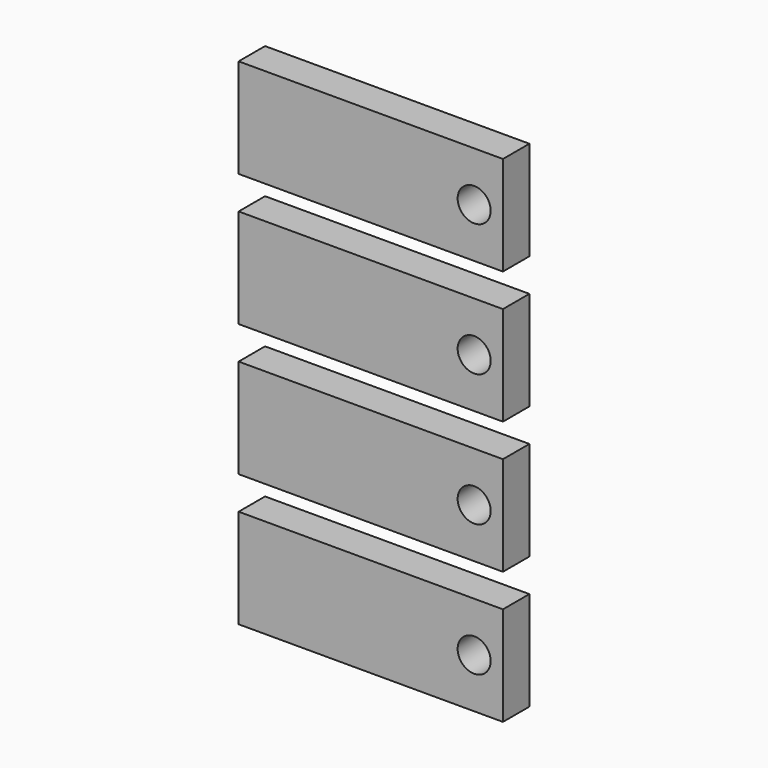
from build123d import *

# Parameters (mm, degrees)
F0_W     = 50.8
F0_H     = 19.05
F1_DEPTH = 3.175
F3_D     = 6.35


with BuildPart() as f1:
    # F0 (on Front) → F1 (new body, symmetric)
    with BuildSketch(Plane.XZ):
        Rectangle(F0_W, F0_H)
        with Locations((0, 25.4)):
            Rectangle(F0_W, F0_H)
        with Locations((0, -25.4)):
            Rectangle(F0_W, F0_H)
        with Locations((0, -50.8)):
            Rectangle(F0_W, F0_H)
    extrude(amount=F1_DEPTH, both=True)

    # F3 (through all)
    with Locations(Plane.XZ.offset(3.175)):
        with Locations((19.86908, 25.4), (19.86908, 0), (19.86908, -25.4), (19.86908, -50.8)):
            Hole(F3_D / 2)


solid = f1.part
